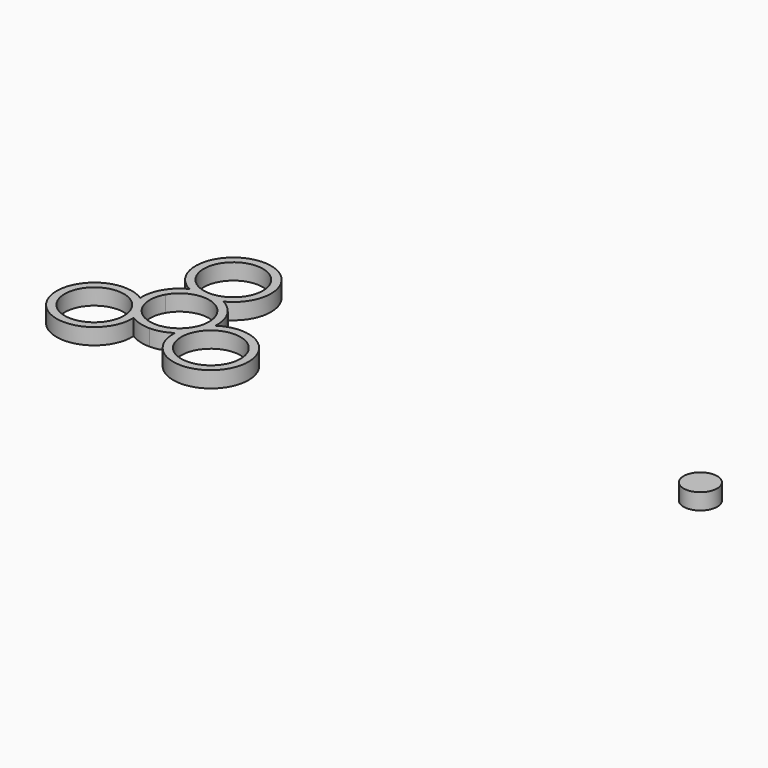
from build123d import *

# Parameters (mm, degrees)
F0_R     = 6.250325
F0_R_2   = 11
F1_DEPTH = 6


with BuildPart() as f1:
    # F0 (on Top) → F1 (new body)
    with BuildSketch(Plane.XY):
        with Locations((185.258165, 10.288472)):
            Circle(F0_R)
        with BuildLine():
            ThreePointArc((6.30476, 12.5), (0, 39), (-6.30476, 12.5))
            ThreePointArc((-6.30476, 12.5), (-9.616162, 10.174941), (-12.124356, 7))
            ThreePointArc((-12.124356, 7), (-13.619838, 3.24037), (-13.977698, -0.789918))
            ThreePointArc((-13.977698, -0.789918), (-33.774991, -19.5), (-7.672937, -11.710082))
            ThreePointArc((-7.672937, -11.710082), (-4.003676, -13.415311), (0, -14))
            ThreePointArc((0, -14), (4.003676, -13.415311), (7.672937, -11.710082))
            ThreePointArc((7.672937, -11.710082), (33.774991, -19.5), (13.977698, -0.789918))
            ThreePointArc((13.977698, -0.789918), (13.619838, 3.24037), (12.124356, 7))
            ThreePointArc((12.124356, 7), (9.616162, 10.174941), (6.30476, 12.5))
        make_face()
        with Locations((-21.650635, -12.5)):
            Circle(F0_R_2, mode=Mode.SUBTRACT)
        with Locations((21.650635, -12.5)):
            Circle(F0_R_2, mode=Mode.SUBTRACT)
        with BuildLine():
            ThreePointArc((-9.526279, 5.5), (0, 11), (9.526279, 5.5))
            ThreePointArc((9.526279, 5.5), (9.526279, -5.5), (0, -11))
            ThreePointArc((0, -11), (-9.526279, -5.5), (-9.526279, 5.5))
        make_face(mode=Mode.SUBTRACT)
        with Locations((0, 25)):
            Circle(F0_R_2, mode=Mode.SUBTRACT)
    extrude(amount=F1_DEPTH)


solid = f1.part
